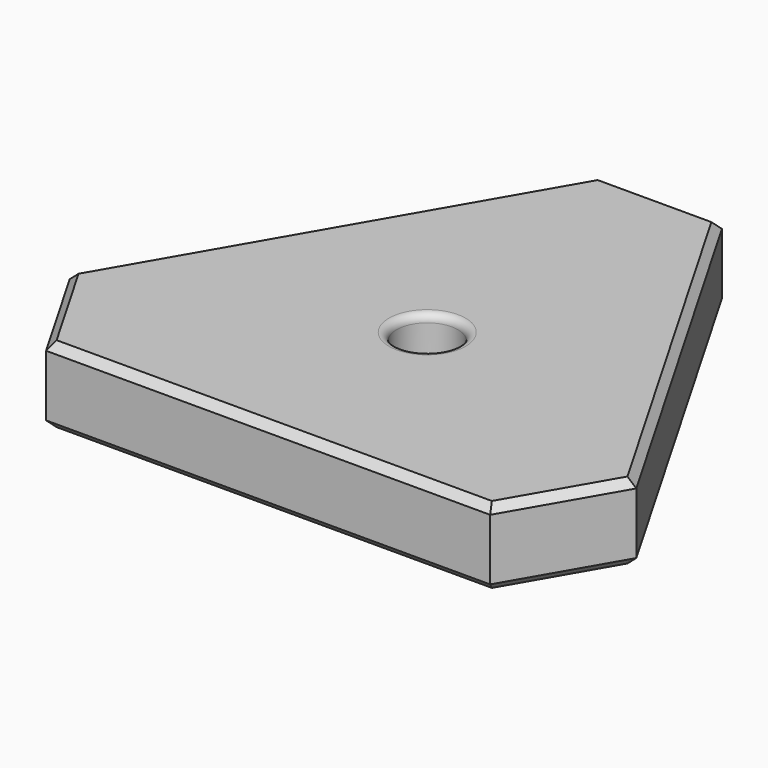
from build123d import *

# Parameters (mm, degrees)
F0_R     = 20
F1_DEPTH = 50
F2_SIZE  = 80
F3_R     = 5
F4_SIZE  = 5


with BuildPart() as f1:
    # F0 (on Top) → F1 (new body)
    with BuildSketch(Plane.XY):
        Polygon((0, 297.3580189822), (-225, -92.3534127208), (225, -92.3534127208), align=None)
        with Locations((0, 37.5503978469)):
            Circle(F0_R, mode=Mode.SUBTRACT)
    extrude(amount=F1_DEPTH)

    # F2
    f2_edges = [f1.edges().sort_by_distance(p)[0] for p in [
        (225, -92.353413, 25),
        (-225, -92.353413, 25),
        (0, 297.358019, 25),
    ]]
    chamfer(f2_edges, length=F2_SIZE)

    # F3
    f3_edges = [f1.edges().sort_by_distance(p)[0] for p in [
        (-20, 37.550398, 50),
        (-20, 37.550398, 0),
    ]]
    fillet(f3_edges, radius=F3_R)

    # F4
    f4_edges = [f1.edges().sort_by_distance(p)[0] for p in [
        (112.5, 102.502303, 50),
        (165, -57.712397, 50),
        (0, -92.353413, 50),
        (-165, -57.712397, 50),
        (-112.5, 102.502303, 50),
        (165, -57.712397, 0),
        (0, -92.353413, 0),
        (112.5, 102.502303, 0),
        (-165, -57.712397, 0),
        (-112.5, 102.502303, 0),
        (0, 228.075987, 0),
        (0, 228.075987, 50),
    ]]
    chamfer(f4_edges, length=F4_SIZE)


solid = f1.part
